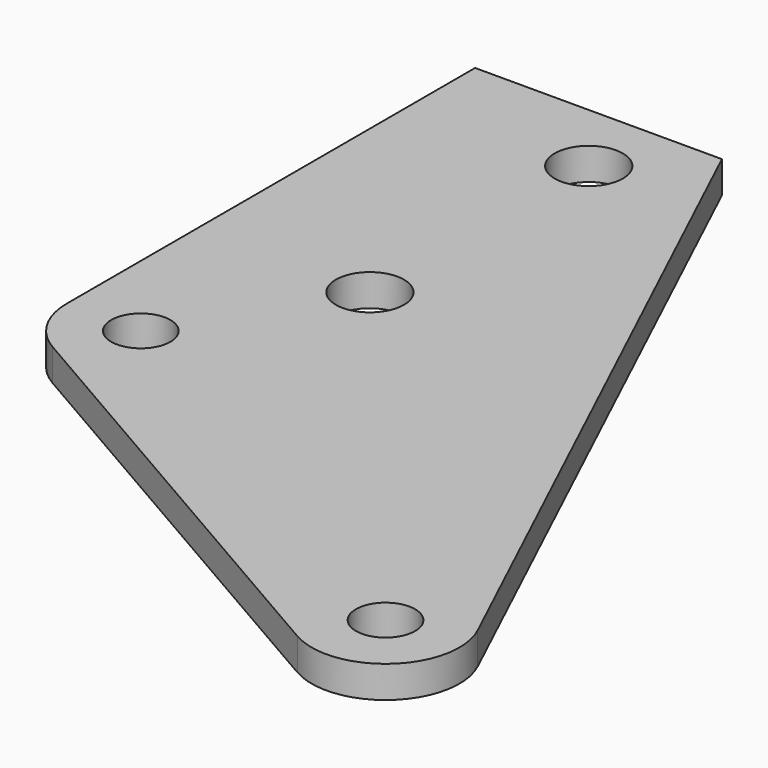
from build123d import *

# Parameters (mm, degrees)
F0_R     = 1.5875
F0_R_2   = 1.8288
F1_DEPTH = 1.70942


with BuildPart() as f1:
    # F0 (on Top) → F1 (new body)
    with BuildSketch(Plane.XY):
        with BuildLine():
            Line((13.24008, 0), (0, 0))
            Line((0, 0), (0, -27.3685))
            ThreePointArc((0, -27.3685), (0.531712, -29.352875), (1.984375, -30.805538))
            Line((1.984375, -30.805538), (26.374369, -44.887108))
            ThreePointArc((26.374369, -44.887108), (31.045093, -44.371457), (31.949778, -39.760262))
            Line((31.949778, -39.760262), (13.24008, 0))
        make_face()
        with Locations((3.96875, -27.3685)):
            Circle(F0_R, mode=Mode.SUBTRACT)
        with Locations((28.358744, -41.45007)):
            Circle(F0_R, mode=Mode.SUBTRACT)
        with Locations((9.27133, -18.63725)):
            Circle(F0_R_2, mode=Mode.SUBTRACT)
        with Locations((9.27133, -3.96875)):
            Circle(F0_R_2, mode=Mode.SUBTRACT)
    extrude(amount=F1_DEPTH)


solid = f1.part
